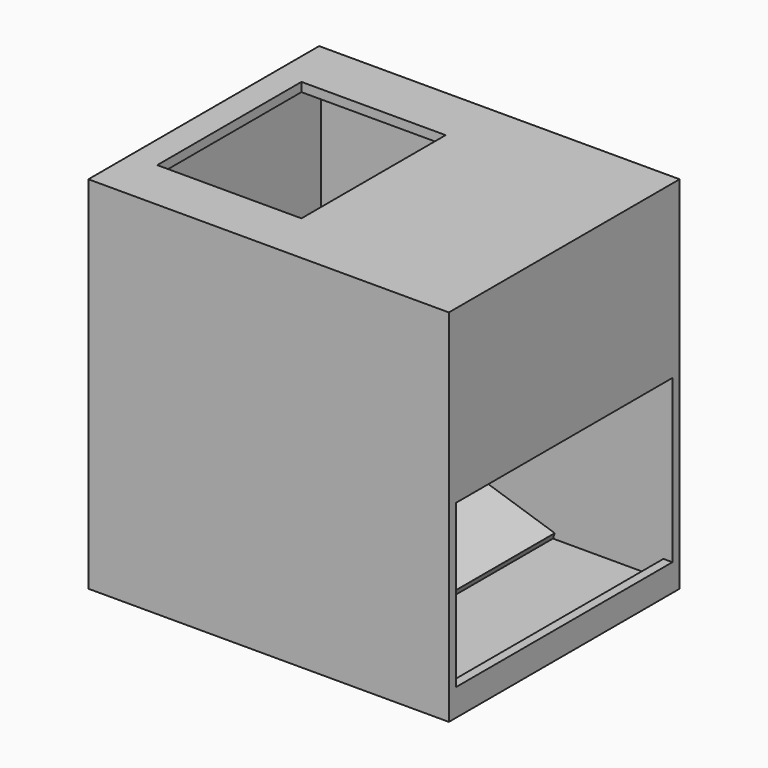
from build123d import *

# Parameters (mm, degrees)
BOX006_W           = 9
BOX006_H           = 75
BOX006_DEPTH       = 45
BOX002_W           = 40
BOX002_H           = 50
BOX002_DEPTH       = 5
BOX001_W           = 95
BOX001_H           = 75
BOX001_DEPTH       = 95
BOX_W              = 100
BOX_H              = 80
BOX_DEPTH          = 100
BOX003_W           = 84
BOX003_H           = 75
BOX003_DEPTH       = 4
BOX003_PITCH_ANGLE = -15
BOX004_W           = 3
BOX004_H           = 75
BOX004_DEPTH       = 5
BOX005_W           = 69
BOX005_H           = 75
BOX005_DEPTH       = 4
BOX005_PITCH_ANGLE = 18


with BuildPart() as cube005:
    # Box006 → Box006 (new body)
    with BuildSketch(Plane(origin=(94, 0, 5), x_dir=(1, 0, 0), z_dir=(0, 0, 1))):
        with Locations((4.5, 37.5)):
            Rectangle(BOX006_W, BOX006_H)
    extrude(amount=BOX006_DEPTH)


with BuildPart() as cube001:
    # Box002 → Box002 (new body)
    with BuildSketch(Plane(origin=(5, 12, 94), x_dir=(1, 0, 0), z_dir=(0, 0, 1))):
        with Locations((20, 25)):
            Rectangle(BOX002_W, BOX002_H)
    extrude(amount=BOX002_DEPTH)


with BuildPart() as inside_hole:
    # Box001 → Box001 (new body)
    with BuildSketch(Plane.XY):
        with Locations((47.5, 37.5)):
            Rectangle(BOX001_W, BOX001_H)
    extrude(amount=BOX001_DEPTH)


with BuildPart() as cut001:
    # Box → Box (new body)
    with BuildSketch(Plane(origin=(-2.5, -2.5, -2.5), x_dir=(1, 0, 0), z_dir=(0, 0, 1))):
        with Locations((50, 40)):
            Rectangle(BOX_W, BOX_H)
    extrude(amount=BOX_DEPTH)

    # Cut: cut inside hole
    add(inside_hole.part, mode=Mode.SUBTRACT)

    # Cut001: cut Cube001
    add(cube001.part, mode=Mode.SUBTRACT)


with BuildPart() as fusion:
    # Box003 → Box003 (new body)
    with BuildSketch(Plane.XY):
        with Locations((42, 37.5)):
            Rectangle(BOX003_W, BOX003_H)
    extrude(amount=BOX003_DEPTH)


with BuildPart() as fusion_1:
    # Box003 pitch: moved
    add(fusion.part.rotate(Axis((0, 0, 0), (0, 1, 0)), BOX003_PITCH_ANGLE))


with BuildPart() as fusion_2:
    # Box003 placement: moved
    add(fusion_1.part.moved(Location((15, 0, 29))))

    # Fusion: union Cut001
    add(cut001.part)


with BuildPart() as fusion001:
    # Box004 → Box004 (new body)
    with BuildSketch(Plane.XY.offset(28)):
        with Locations((1.5, 37.5)):
            Rectangle(BOX004_W, BOX004_H)
    extrude(amount=BOX004_DEPTH)

    # Fusion001: union Fusion
    add(fusion_2.part)


with BuildPart() as compartment:
    # Box005 → Box005 (new body)
    with BuildSketch(Plane.XY):
        with Locations((34.5, 37.5)):
            Rectangle(BOX005_W, BOX005_H)
    extrude(amount=BOX005_DEPTH)


with BuildPart() as compartment_1:
    # Box005 pitch: moved
    add(compartment.part.rotate(Axis((0, 0, 0), (0, 1, 0)), BOX005_PITCH_ANGLE))


with BuildPart() as compartment_2:
    # Box005 placement: moved
    add(compartment_1.part.moved(Location((-2, 0, 19))))

    # Fusion002: union Fusion001
    add(fusion001.part)

    # Cut002: cut Cube005
    add(cube005.part, mode=Mode.SUBTRACT)


solid = compartment_2.part
